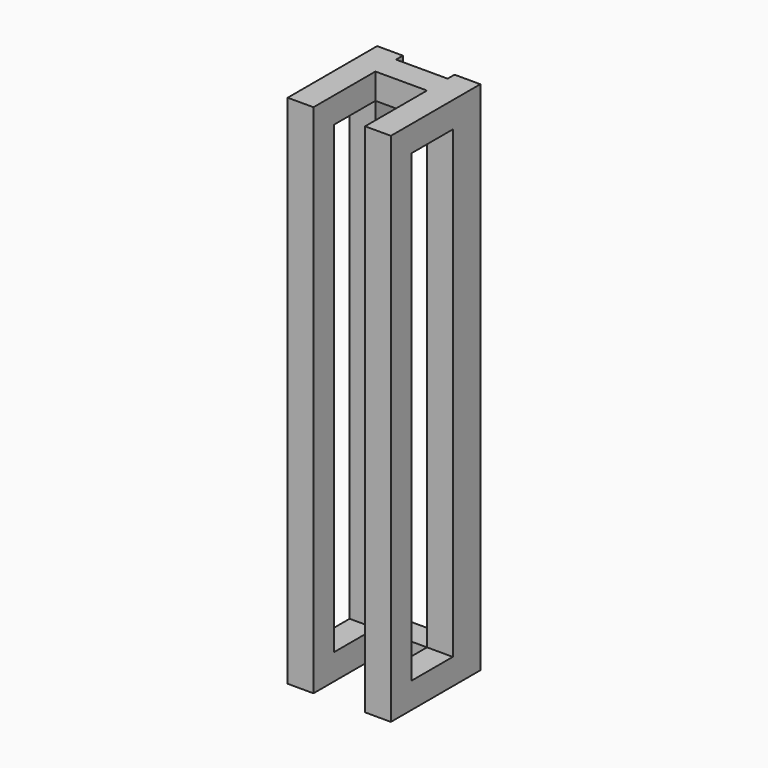
from build123d import *

# Parameters (mm, degrees)
F0_W     = 3.81
F0_H     = 3.81
F0_W_2   = 7.62
F0_H_2   = 68.58
F1_DEPTH = 3.81
F2_DEPTH = 1.27
F3_DEPTH = 15.24
F4_W     = 3.81
F4_H     = 3.81
F5_DEPTH = 68.58
F6_W     = 3.81
F6_H     = 3.81
F7_DEPTH = 68.58


with BuildPart() as f1:
    # F0 (on Front) → F1 (new body)
    with BuildSketch(Plane.XZ):
        with Locations((-51.6441376173, 83.97309774)):
            Rectangle(F0_W, F0_H)
        with Locations((-45.9291376173, 83.97309774)):
            Rectangle(F0_W_2, F0_H)
        with Locations((-40.2141376173, 83.97309774)):
            Rectangle(F0_W, F0_H)
        with Locations((-40.2141376173, 47.77809774)):
            Rectangle(F0_W, F0_H_2)
        with Locations((-51.6441376173, 47.77809774)):
            Rectangle(F0_W, F0_H_2)
        with Locations((-51.6441376173, 11.58309774)):
            Rectangle(F0_W, F0_H)
        with Locations((-45.9291376173, 11.58309774)):
            Rectangle(F0_W_2, F0_H)
        with Locations((-40.2141376173, 11.58309774)):
            Rectangle(F0_W, F0_H)
    extrude(amount=F1_DEPTH)

    # F0 (on Front) → F2 (join)
    with BuildSketch(Plane.XZ):
        with Locations((-51.6441376173, 47.77809774)):
            Rectangle(F0_W, F0_H_2)
        with Locations((-51.6441376173, 83.97309774)):
            Rectangle(F0_W, F0_H)
        with Locations((-40.2141376173, 83.97309774)):
            Rectangle(F0_W, F0_H)
        with Locations((-40.2141376173, 47.77809774)):
            Rectangle(F0_W, F0_H_2)
        with Locations((-40.2141376173, 11.58309774)):
            Rectangle(F0_W, F0_H)
        with Locations((-51.6441376173, 11.58309774)):
            Rectangle(F0_W, F0_H)
    extrude(amount=-F2_DEPTH)

    # F0 (on Front) → F3 (join)
    with BuildSketch(Plane.XZ):
        with Locations((-51.6441376173, 83.97309774)):
            Rectangle(F0_W, F0_H)
        with Locations((-40.2141376173, 83.97309774)):
            Rectangle(F0_W, F0_H)
        with Locations((-51.6441376173, 11.58309774)):
            Rectangle(F0_W, F0_H)
        with Locations((-40.2141376173, 11.58309774)):
            Rectangle(F0_W, F0_H)
    extrude(amount=F3_DEPTH)

    # F4 (on face) → F5 (join)
    with BuildSketch(Plane(origin=(0, 0, 82.06809774), x_dir=(1, 0, 0), z_dir=(0, 0, -1))):
        with Locations((-51.6441376173, 13.335)):
            Rectangle(F4_W, F4_H)
    extrude(amount=F5_DEPTH)

    # F6 (on face) → F7 (join)
    with BuildSketch(Plane(origin=(0, 0, 82.06809774), x_dir=(1, 0, 0), z_dir=(0, 0, -1))):
        with Locations((-40.2141376173, 13.335)):
            Rectangle(F6_W, F6_H)
    extrude(amount=F7_DEPTH)


solid = f1.part
